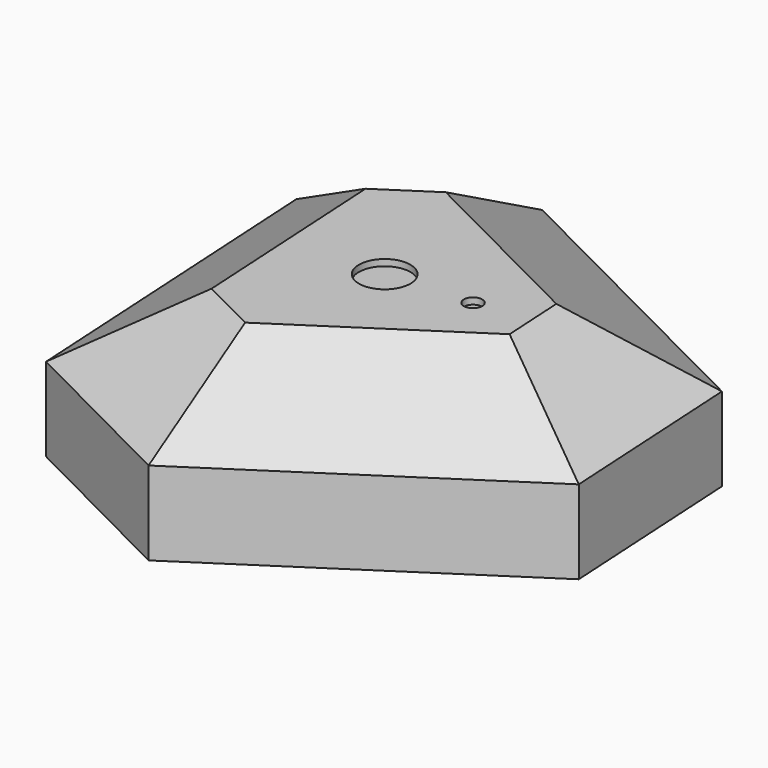
from build123d import *

# Parameters (mm, degrees)
F1_DEPTH  = 48
F2_SIZE2  = 35
F2_SIZE   = 22
F3_R      = 8
F4_DEPTH  = 2
F5_R      = 2.1
F6_DEPTH  = 5
F7_W      = 40
F7_H      = 15
F8_DEPTH  = 15
F9_R      = 2.8537362448
F10_DEPTH = 2


with BuildPart() as f1:
    # F0 (on Top) → F1 (new body)
    with BuildSketch(Plane.XY):
        Polygon((-8.3140695912, -83.1016019511), (79.5110319718, -25.5537823968), (76.1251331804, 34.3506055007), (-17.6252912675, 81.6354647671), (-67.8110635892, 48.7509964503), (-61.8911448644, -55.9860702678), align=None)
    extrude(amount=F1_DEPTH)

    # F2
    f2_edges = [f1.edges().sort_by_distance(p)[0] for p in [
        (-35.102607, -69.543836, 48),
        (35.598481, -54.327692, 48),
        (77.818083, 4.398412, 48),
        (29.249921, 57.993035, 48),
        (-42.718177, 65.193231, 48),
        (-64.851104, -3.617537, 48),
    ]]
    chamfer(f2_edges, length=F2_SIZE, length2=F2_SIZE2)

    # F3 (on face) → F4 (cut)
    with BuildSketch(Plane.XY.offset(48)):
        with Locations((0, -1.6585105106)):
            Circle(F3_R)
    extrude(amount=-F4_DEPTH, mode=Mode.SUBTRACT)

    # F5 (on face) → F6 (cut)
    with BuildSketch(Plane(origin=(0, 0, 0), x_dir=(1, 0, 0), z_dir=(0, 0, -1))):
        with Locations((17.2813809108, 39.0870698365)):
            Circle(F5_R)
        with Locations((12.766849189, -40.7854473602)):
            Circle(F5_R)
    extrude(amount=-F6_DEPTH, mode=Mode.SUBTRACT)

    # F7 (on face) → F8 (cut)
    with BuildSketch(Plane(origin=(-64.8484021467, -3.66534296, 0), x_dir=(0.0564316465, -0.998406465, 0), z_dir=(-0.998406465, -0.0564316465, 0))):
        with Locations((0.5, 7.5)):
            Rectangle(F7_W, F7_H)
    extrude(amount=-F8_DEPTH, mode=Mode.SUBTRACT)

    # F9 (on face) → F10 (cut)
    with BuildSketch(Plane.XY.offset(48)):
        with Locations((26.1640120298, 0)):
            Circle(F9_R)
    extrude(amount=-F10_DEPTH, mode=Mode.SUBTRACT)


solid = f1.part
